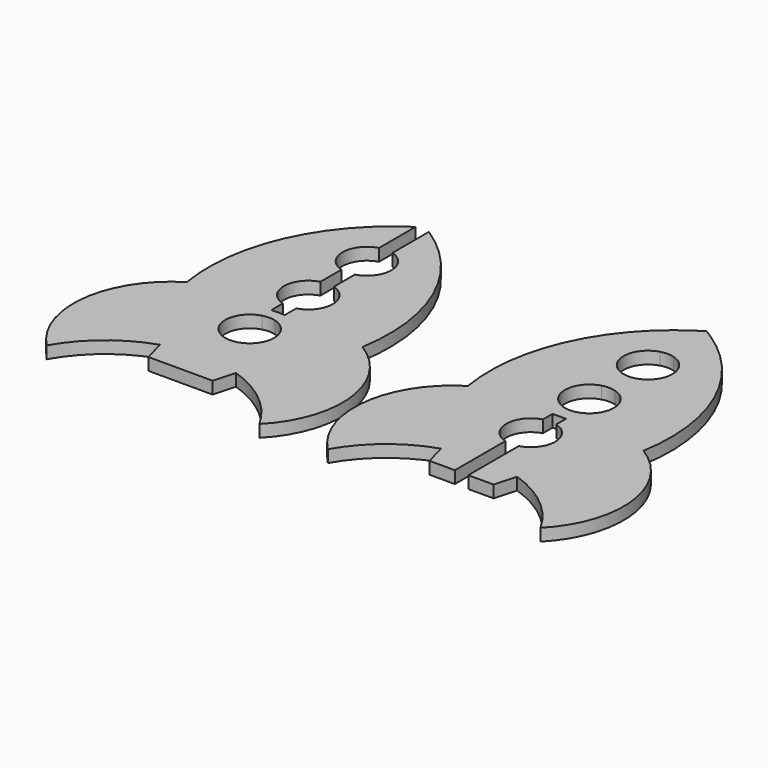
from build123d import *

# Parameters (mm, degrees)
F1_DEPTH = 5
F2_DEPTH = 5


with BuildPart() as f1:
    # F0 (on Top) → F1 (new body)
    with BuildSketch(Plane.XY):
        with BuildLine():
            Line((-2.75, 61.9717290831), (-2.75, 80.6603866931))
            ThreePointArc((-2.75, 80.6603866931), (-30.6631850265, 47.86816421), (-35.9390286185, 5.1289406782))
            ThreePointArc((-35.9390286185, 5.1289406782), (-54.7882367352, -24.1470612112), (-43.5523145395, -57.1035626286))
            ThreePointArc((-43.5523145395, -57.1035626286), (-31.7160791321, -43.0101448311), (-15.5826842556, -34.1538214634))
            Line((-15.5826842556, -34.1538214634), (-13.1413964555, -43.0730991066))
            Line((-13.1413964555, -43.0730991066), (-2.75, -43.0730991066))
            Line((-2.75, -43.0730991066), (-2.75, -17.2571554399))
            ThreePointArc((-2.75, -17.2571554399), (-10, -7.6427131784), (-2.75, 1.9717290831))
            Line((-2.75, 1.9717290831), (-2.75, 6.911823526))
            Line((-2.75, 6.911823526), (-2.75, 12.7428445601))
            ThreePointArc((-2.75, 12.7428445601), (-10, 22.3572868216), (-2.75, 31.9717290831))
            Line((-2.75, 31.9717290831), (-2.75, 42.7428445601))
            ThreePointArc((-2.75, 42.7428445601), (-10, 52.3572868216), (-2.75, 61.9717290831))
        make_face()
        with BuildLine():
            ThreePointArc((15.5826842556, -34.1538214634), (31.7160791321, -43.0101448311), (43.5523145395, -57.1035626286))
            ThreePointArc((43.5523145395, -57.1035626286), (54.7882367352, -24.1470612112), (35.9390286185, 5.1289406782))
            ThreePointArc((35.9390286185, 5.1289406782), (30.6631850265, 47.86816421), (2.75, 80.6603866931))
            Line((2.75, 80.6603866931), (2.75, 61.9717290831))
            ThreePointArc((2.75, 61.9717290831), (7.9843597113, 58.378084111), (10, 52.3572868216))
            ThreePointArc((10, 52.3572868216), (7.9843597113, 46.3364895322), (2.75, 42.7428445601))
            Line((2.75, 42.7428445601), (2.75, 31.9717290831))
            ThreePointArc((2.75, 31.9717290831), (7.9843597113, 28.378084111), (10, 22.3572868216))
            ThreePointArc((10, 22.3572868216), (7.9843597113, 16.3364895322), (2.75, 12.7428445601))
            Line((2.75, 12.7428445601), (2.75, 6.911823526))
            Line((2.75, 6.911823526), (2.75, 1.9717290831))
            ThreePointArc((2.75, 1.9717290831), (7.9843597113, -1.621915889), (10, -7.6427131784))
            ThreePointArc((10, -7.6427131784), (7.9843597113, -13.6635104678), (2.75, -17.2571554399))
            Line((2.75, -17.2571554399), (2.75, -43.0730991066))
            Line((2.75, -43.0730991066), (13.1413964555, -43.0730991066))
            Line((13.1413964555, -43.0730991066), (15.5826842556, -34.1538214634))
        make_face()
        with BuildLine():
            Line((0, -43.0730991066), (2.75, -43.0730991066))
            Line((2.75, -43.0730991066), (2.75, -17.2571554399))
            ThreePointArc((2.75, -17.2571554399), (0, -17.6427131784), (-2.75, -17.2571554399))
            Line((-2.75, -17.2571554399), (-2.75, -43.0730991066))
            Line((-2.75, -43.0730991066), (0, -43.0730991066))
        make_face()
        with BuildLine():
            ThreePointArc((-2.75, 1.9717290831), (0, 2.3572868216), (2.75, 1.9717290831))
            Line((2.75, 1.9717290831), (2.75, 6.911823526))
            Line((2.75, 6.911823526), (-2.75, 6.911823526))
            Line((-2.75, 6.911823526), (-2.75, 1.9717290831))
        make_face()
    extrude(amount=F1_DEPTH)


with BuildPart() as f2:
    # F0 (on Top) → F2 (new body)
    with BuildSketch(Plane.XY):
        with BuildLine():
            Line((-2.75, 61.9717290831), (-2.75, 80.6603866931))
            ThreePointArc((-2.75, 80.6603866931), (-30.6631850265, 47.86816421), (-35.9390286185, 5.1289406782))
            ThreePointArc((-35.9390286185, 5.1289406782), (-54.7882367352, -24.1470612112), (-43.5523145395, -57.1035626286))
            ThreePointArc((-43.5523145395, -57.1035626286), (-31.7160791321, -43.0101448311), (-15.5826842556, -34.1538214634))
            Line((-15.5826842556, -34.1538214634), (-13.1413964555, -43.0730991066))
            Line((-13.1413964555, -43.0730991066), (-2.75, -43.0730991066))
            Line((-2.75, -43.0730991066), (-2.75, -17.2571554399))
            ThreePointArc((-2.75, -17.2571554399), (-10, -7.6427131784), (-2.75, 1.9717290831))
            Line((-2.75, 1.9717290831), (-2.75, 6.911823526))
            Line((-2.75, 6.911823526), (-2.75, 12.7428445601))
            ThreePointArc((-2.75, 12.7428445601), (-10, 22.3572868216), (-2.75, 31.9717290831))
            Line((-2.75, 31.9717290831), (-2.75, 42.7428445601))
            ThreePointArc((-2.75, 42.7428445601), (-10, 52.3572868216), (-2.75, 61.9717290831))
        make_face()
        with BuildLine():
            ThreePointArc((15.5826842556, -34.1538214634), (31.7160791321, -43.0101448311), (43.5523145395, -57.1035626286))
            ThreePointArc((43.5523145395, -57.1035626286), (54.7882367352, -24.1470612112), (35.9390286185, 5.1289406782))
            ThreePointArc((35.9390286185, 5.1289406782), (30.6631850265, 47.86816421), (2.75, 80.6603866931))
            Line((2.75, 80.6603866931), (2.75, 61.9717290831))
            ThreePointArc((2.75, 61.9717290831), (7.9843597113, 58.378084111), (10, 52.3572868216))
            ThreePointArc((10, 52.3572868216), (7.9843597113, 46.3364895322), (2.75, 42.7428445601))
            Line((2.75, 42.7428445601), (2.75, 31.9717290831))
            ThreePointArc((2.75, 31.9717290831), (7.9843597113, 28.378084111), (10, 22.3572868216))
            ThreePointArc((10, 22.3572868216), (7.9843597113, 16.3364895322), (2.75, 12.7428445601))
            Line((2.75, 12.7428445601), (2.75, 6.911823526))
            Line((2.75, 6.911823526), (2.75, 1.9717290831))
            ThreePointArc((2.75, 1.9717290831), (7.9843597113, -1.621915889), (10, -7.6427131784))
            ThreePointArc((10, -7.6427131784), (7.9843597113, -13.6635104678), (2.75, -17.2571554399))
            Line((2.75, -17.2571554399), (2.75, -43.0730991066))
            Line((2.75, -43.0730991066), (13.1413964555, -43.0730991066))
            Line((13.1413964555, -43.0730991066), (15.5826842556, -34.1538214634))
        make_face()
        with BuildLine():
            Line((2.75, 61.9717290831), (2.75, 80.6603866931))
            ThreePointArc((2.75, 80.6603866931), (1.3841400096, 81.5236490765), (0, 82.3572868216))
            ThreePointArc((0, 82.3572868216), (-1.3841400096, 81.5236490765), (-2.75, 80.6603866931))
            Line((-2.75, 80.6603866931), (-2.75, 61.9717290831))
            ThreePointArc((-2.75, 61.9717290831), (0, 62.3572868216), (2.75, 61.9717290831))
        make_face()
        with BuildLine():
            Line((2.75, 31.9717290831), (2.75, 42.7428445601))
            ThreePointArc((2.75, 42.7428445601), (0, 42.3572868216), (-2.75, 42.7428445601))
            Line((-2.75, 42.7428445601), (-2.75, 31.9717290831))
            ThreePointArc((-2.75, 31.9717290831), (0, 32.3572868216), (2.75, 31.9717290831))
        make_face()
        with BuildLine():
            Line((-2.75, 6.911823526), (2.75, 6.911823526))
            Line((2.75, 6.911823526), (2.75, 12.7428445601))
            ThreePointArc((2.75, 12.7428445601), (0, 12.3572868216), (-2.75, 12.7428445601))
            Line((-2.75, 12.7428445601), (-2.75, 6.911823526))
        make_face()
    extrude(amount=F2_DEPTH)


with BuildPart() as f1_1:
    # F3: moved
    add(f1.part.moved(Location((-115.1, 0, 0))))


solid = Compound([f2.part, f1_1.part])
